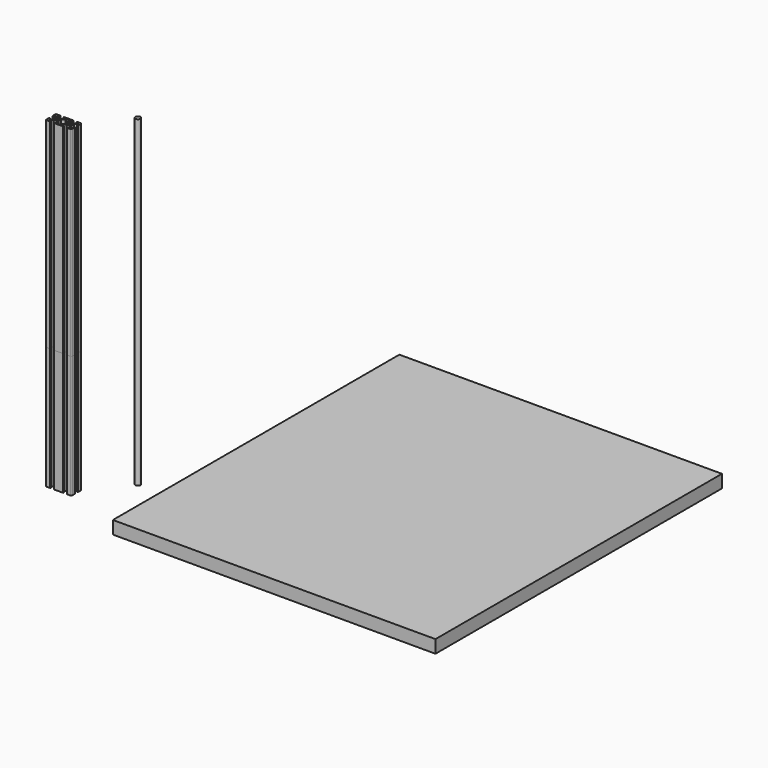
from build123d import *

# Parameters (mm, degrees)
F0_R     = 4
F1_DEPTH = 500
F2_DEPTH = 190
F0_W     = 500
F0_H     = 555
F3_DEPTH = 20


with BuildPart() as f1:
    # F0 (on Top) → F1 (new body)
    with BuildSketch(Plane.XY):
        with BuildLine():
            Line((-76.845602, -54.184212), (-82.207602, -54.184212))
            ThreePointArc((-82.207602, -54.184212), (-83.268262, -54.623552), (-83.707602, -55.684212))
            Line((-83.707602, -55.684212), (-83.707602, -61.046212))
            ThreePointArc((-83.707602, -61.046212), (-83.558812, -61.405423), (-83.199602, -61.554212))
            Line((-83.199602, -61.554212), (-82.715602, -61.554212))
            ThreePointArc((-82.715602, -61.554212), (-82.356392, -61.405423), (-82.207602, -61.046212))
            Line((-82.207602, -61.046212), (-82.207602, -58.697212))
            ThreePointArc((-82.207602, -58.697212), (-82.058812, -58.338002), (-81.699602, -58.189212))
            Line((-81.699602, -58.189212), (-80.973683, -58.189212))
            ThreePointArc((-80.973683, -58.189212), (-80.779279, -58.227881), (-80.614472, -58.338002))
            Line((-80.614472, -58.338002), (-77.511392, -61.441083))
            ThreePointArc((-77.511392, -61.441083), (-77.401271, -61.60589), (-77.362602, -61.800293))
            Line((-77.362602, -61.800293), (-77.362602, -66.568132))
            ThreePointArc((-77.362602, -66.568132), (-77.401271, -66.762535), (-77.511392, -66.927342))
            Line((-77.511392, -66.927342), (-80.614472, -70.030423))
            ThreePointArc((-80.614472, -70.030423), (-80.779279, -70.140543), (-80.973683, -70.179212))
            Line((-80.973683, -70.179212), (-81.699602, -70.179212))
            ThreePointArc((-81.699602, -70.179212), (-82.058812, -70.030423), (-82.207602, -69.671212))
            Line((-82.207602, -69.671212), (-82.207602, -67.322212))
            ThreePointArc((-82.207602, -67.322212), (-82.356392, -66.963002), (-82.715602, -66.814212))
            Line((-82.715602, -66.814212), (-83.199602, -66.814212))
            ThreePointArc((-83.199602, -66.814212), (-83.558812, -66.963002), (-83.707602, -67.322212))
            Line((-83.707602, -67.322212), (-83.707602, -72.684212))
            ThreePointArc((-83.707602, -72.684212), (-83.268262, -73.744872), (-82.207602, -74.184212))
            Line((-82.207602, -74.184212), (-76.845602, -74.184212))
            ThreePointArc((-76.845602, -74.184212), (-76.486392, -74.035423), (-76.337602, -73.676212))
            Line((-76.337602, -73.676212), (-76.337602, -73.192212))
            ThreePointArc((-76.337602, -73.192212), (-76.486392, -72.833002), (-76.845602, -72.684212))
            Line((-76.845602, -72.684212), (-79.194602, -72.684212))
            ThreePointArc((-79.194602, -72.684212), (-79.553812, -72.535423), (-79.702602, -72.176212))
            Line((-79.702602, -72.176212), (-79.702602, -71.450293))
            ThreePointArc((-79.702602, -71.450293), (-79.663933, -71.25589), (-79.553812, -71.091083))
            Line((-79.553812, -71.091083), (-76.450732, -67.988002))
            ThreePointArc((-76.450732, -67.988002), (-76.285924, -67.877881), (-76.091521, -67.839212))
            Line((-76.091521, -67.839212), (-71.323683, -67.839212))
            ThreePointArc((-71.323683, -67.839212), (-71.129279, -67.877881), (-70.964472, -67.988002))
            Line((-70.964472, -67.988002), (-67.861392, -71.091083))
            ThreePointArc((-67.861392, -71.091083), (-67.751271, -71.25589), (-67.712602, -71.450293))
            Line((-67.712602, -71.450293), (-67.712602, -72.176212))
            ThreePointArc((-67.712602, -72.176212), (-67.861392, -72.535423), (-68.220602, -72.684212))
            Line((-68.220602, -72.684212), (-70.569602, -72.684212))
            ThreePointArc((-70.569602, -72.684212), (-70.928812, -72.833002), (-71.077602, -73.192212))
            Line((-71.077602, -73.192212), (-71.077602, -73.676212))
            ThreePointArc((-71.077602, -73.676212), (-70.928812, -74.035423), (-70.569602, -74.184212))
            Line((-70.569602, -74.184212), (-63.707602, -74.184212))
            Line((-63.707602, -74.184212), (-56.845602, -74.184212))
            ThreePointArc((-56.845602, -74.184212), (-56.486392, -74.035423), (-56.337602, -73.676212))
            Line((-56.337602, -73.676212), (-56.337602, -73.192212))
            ThreePointArc((-56.337602, -73.192212), (-56.486392, -72.833002), (-56.845602, -72.684212))
            Line((-56.845602, -72.684212), (-59.194602, -72.684212))
            ThreePointArc((-59.194602, -72.684212), (-59.553812, -72.535423), (-59.702602, -72.176212))
            Line((-59.702602, -72.176212), (-59.702602, -71.450293))
            ThreePointArc((-59.702602, -71.450293), (-59.663933, -71.25589), (-59.553812, -71.091083))
            Line((-59.553812, -71.091083), (-56.450732, -67.988002))
            ThreePointArc((-56.450732, -67.988002), (-56.285924, -67.877881), (-56.091521, -67.839212))
            Line((-56.091521, -67.839212), (-51.323683, -67.839212))
            ThreePointArc((-51.323683, -67.839212), (-51.129279, -67.877881), (-50.964472, -67.988002))
            Line((-50.964472, -67.988002), (-47.861392, -71.091083))
            ThreePointArc((-47.861392, -71.091083), (-47.751271, -71.25589), (-47.712602, -71.450293))
            Line((-47.712602, -71.450293), (-47.712602, -72.176212))
            ThreePointArc((-47.712602, -72.176212), (-47.861392, -72.535423), (-48.220602, -72.684212))
            Line((-48.220602, -72.684212), (-50.569602, -72.684212))
            ThreePointArc((-50.569602, -72.684212), (-50.928812, -72.833002), (-51.077602, -73.192212))
            Line((-51.077602, -73.192212), (-51.077602, -73.676212))
            ThreePointArc((-51.077602, -73.676212), (-50.928812, -74.035423), (-50.569602, -74.184212))
            Line((-50.569602, -74.184212), (-45.207602, -74.184212))
            ThreePointArc((-45.207602, -74.184212), (-44.146942, -73.744872), (-43.707602, -72.684212))
            Line((-43.707602, -72.684212), (-43.707602, -67.322212))
            ThreePointArc((-43.707602, -67.322212), (-43.856392, -66.963002), (-44.215602, -66.814212))
            Line((-44.215602, -66.814212), (-44.699602, -66.814212))
            ThreePointArc((-44.699602, -66.814212), (-45.058812, -66.963002), (-45.207602, -67.322212))
            Line((-45.207602, -67.322212), (-45.207602, -69.671212))
            ThreePointArc((-45.207602, -69.671212), (-45.356392, -70.030423), (-45.715602, -70.179212))
            Line((-45.715602, -70.179212), (-46.441521, -70.179212))
            ThreePointArc((-46.441521, -70.179212), (-46.635924, -70.140543), (-46.800732, -70.030423))
            Line((-46.800732, -70.030423), (-49.903812, -66.927342))
            ThreePointArc((-49.903812, -66.927342), (-50.013933, -66.762535), (-50.052602, -66.568132))
            Line((-50.052602, -66.568132), (-50.052602, -61.800293))
            ThreePointArc((-50.052602, -61.800293), (-50.013933, -61.60589), (-49.903812, -61.441083))
            Line((-49.903812, -61.441083), (-46.800732, -58.338002))
            ThreePointArc((-46.800732, -58.338002), (-46.635924, -58.227881), (-46.441521, -58.189212))
            Line((-46.441521, -58.189212), (-45.715602, -58.189212))
            ThreePointArc((-45.715602, -58.189212), (-45.356392, -58.338002), (-45.207602, -58.697212))
            Line((-45.207602, -58.697212), (-45.207602, -61.046212))
            ThreePointArc((-45.207602, -61.046212), (-45.058812, -61.405423), (-44.699602, -61.554212))
            Line((-44.699602, -61.554212), (-44.215602, -61.554212))
            ThreePointArc((-44.215602, -61.554212), (-43.856392, -61.405423), (-43.707602, -61.046212))
            Line((-43.707602, -61.046212), (-43.707602, -55.684212))
            ThreePointArc((-43.707602, -55.684212), (-44.146942, -54.623552), (-45.207602, -54.184212))
            Line((-45.207602, -54.184212), (-50.569602, -54.184212))
            ThreePointArc((-50.569602, -54.184212), (-50.928812, -54.333002), (-51.077602, -54.692212))
            Line((-51.077602, -54.692212), (-51.077602, -55.176212))
            ThreePointArc((-51.077602, -55.176212), (-50.928812, -55.535423), (-50.569602, -55.684212))
            Line((-50.569602, -55.684212), (-48.220602, -55.684212))
            ThreePointArc((-48.220602, -55.684212), (-47.861392, -55.833002), (-47.712602, -56.192212))
            Line((-47.712602, -56.192212), (-47.712602, -56.918132))
            ThreePointArc((-47.712602, -56.918132), (-47.751271, -57.112535), (-47.861392, -57.277342))
            Line((-47.861392, -57.277342), (-50.964472, -60.380423))
            ThreePointArc((-50.964472, -60.380423), (-51.129279, -60.490543), (-51.323683, -60.529212))
            Line((-51.323683, -60.529212), (-56.091521, -60.529212))
            ThreePointArc((-56.091521, -60.529212), (-56.285924, -60.490543), (-56.450732, -60.380423))
            Line((-56.450732, -60.380423), (-59.553812, -57.277342))
            ThreePointArc((-59.553812, -57.277342), (-59.663933, -57.112535), (-59.702602, -56.918132))
            Line((-59.702602, -56.918132), (-59.702602, -56.192212))
            ThreePointArc((-59.702602, -56.192212), (-59.553812, -55.833002), (-59.194602, -55.684212))
            Line((-59.194602, -55.684212), (-56.845602, -55.684212))
            ThreePointArc((-56.845602, -55.684212), (-56.486392, -55.535423), (-56.337602, -55.176212))
            Line((-56.337602, -55.176212), (-56.337602, -54.692212))
            ThreePointArc((-56.337602, -54.692212), (-56.486392, -54.333002), (-56.845602, -54.184212))
            Line((-56.845602, -54.184212), (-63.707602, -54.184212))
            Line((-63.707602, -54.184212), (-70.569602, -54.184212))
            ThreePointArc((-70.569602, -54.184212), (-70.928812, -54.333002), (-71.077602, -54.692212))
            Line((-71.077602, -54.692212), (-71.077602, -55.176212))
            ThreePointArc((-71.077602, -55.176212), (-70.928812, -55.535423), (-70.569602, -55.684212))
            Line((-70.569602, -55.684212), (-68.220602, -55.684212))
            ThreePointArc((-68.220602, -55.684212), (-67.861392, -55.833002), (-67.712602, -56.192212))
            Line((-67.712602, -56.192212), (-67.712602, -56.918132))
            ThreePointArc((-67.712602, -56.918132), (-67.751271, -57.112535), (-67.861392, -57.277342))
            Line((-67.861392, -57.277342), (-70.964472, -60.380423))
            ThreePointArc((-70.964472, -60.380423), (-71.129279, -60.490543), (-71.323683, -60.529212))
            Line((-71.323683, -60.529212), (-76.091521, -60.529212))
            ThreePointArc((-76.091521, -60.529212), (-76.285924, -60.490543), (-76.450732, -60.380423))
            Line((-76.450732, -60.380423), (-79.553812, -57.277342))
            ThreePointArc((-79.553812, -57.277342), (-79.663933, -57.112535), (-79.702602, -56.918132))
            Line((-79.702602, -56.918132), (-79.702602, -56.192212))
            ThreePointArc((-79.702602, -56.192212), (-79.553812, -55.833002), (-79.194602, -55.684212))
            Line((-79.194602, -55.684212), (-76.845602, -55.684212))
            ThreePointArc((-76.845602, -55.684212), (-76.486392, -55.535423), (-76.337602, -55.176212))
            Line((-76.337602, -55.176212), (-76.337602, -54.692212))
            ThreePointArc((-76.337602, -54.692212), (-76.486392, -54.333002), (-76.845602, -54.184212))
        make_face()
        with BuildLine():
            ThreePointArc((-75.642735, -63.380236), (-76.21354, -62.827744), (-76.012108, -62.059311))
            Line((-76.012108, -62.059311), (-75.832503, -61.879706))
            ThreePointArc((-75.832503, -61.879706), (-75.06407, -61.678274), (-74.511579, -62.249079))
            ThreePointArc((-74.511579, -62.249079), (-73.707602, -62.088712), (-72.903625, -62.249079))
            ThreePointArc((-72.903625, -62.249079), (-72.351134, -61.678274), (-71.582701, -61.879706))
            Line((-71.582701, -61.879706), (-71.403096, -62.059311))
            ThreePointArc((-71.403096, -62.059311), (-71.201664, -62.827744), (-71.772468, -63.380236))
            ThreePointArc((-71.772468, -63.380236), (-71.612102, -64.184212), (-71.772468, -64.988189))
            ThreePointArc((-71.772468, -64.988189), (-71.201664, -65.54068), (-71.403096, -66.309113))
            Line((-71.403096, -66.309113), (-71.582701, -66.488718))
            ThreePointArc((-71.582701, -66.488718), (-72.351134, -66.69015), (-72.903625, -66.119346))
            ThreePointArc((-72.903625, -66.119346), (-73.707602, -66.279712), (-74.511579, -66.119346))
            ThreePointArc((-74.511579, -66.119346), (-75.06407, -66.69015), (-75.832503, -66.488718))
            Line((-75.832503, -66.488718), (-76.012108, -66.309113))
            ThreePointArc((-76.012108, -66.309113), (-76.21354, -65.54068), (-75.642735, -64.988189))
            ThreePointArc((-75.642735, -64.988189), (-75.803102, -64.184212), (-75.642735, -63.380236))
        make_face(mode=Mode.SUBTRACT)
        with BuildLine():
            ThreePointArc((-70.052602, -61.800293), (-70.013933, -61.60589), (-69.903812, -61.441083))
            Line((-69.903812, -61.441083), (-66.361392, -57.898662))
            ThreePointArc((-66.361392, -57.898662), (-66.251271, -57.733855), (-66.212602, -57.539452))
            Line((-66.212602, -57.539452), (-66.212602, -56.192212))
            ThreePointArc((-66.212602, -56.192212), (-66.063812, -55.833002), (-65.704602, -55.684212))
            Line((-65.704602, -55.684212), (-63.707602, -55.684212))
            Line((-63.707602, -55.684212), (-61.710602, -55.684212))
            ThreePointArc((-61.710602, -55.684212), (-61.351392, -55.833002), (-61.202602, -56.192212))
            Line((-61.202602, -56.192212), (-61.202602, -57.539452))
            ThreePointArc((-61.202602, -57.539452), (-61.163933, -57.733855), (-61.053812, -57.898662))
            Line((-61.053812, -57.898662), (-57.511392, -61.441083))
            ThreePointArc((-57.511392, -61.441083), (-57.401271, -61.60589), (-57.362602, -61.800293))
            Line((-57.362602, -61.800293), (-57.362602, -66.568132))
            ThreePointArc((-57.362602, -66.568132), (-57.401271, -66.762535), (-57.511392, -66.927342))
            Line((-57.511392, -66.927342), (-61.053812, -70.469762))
            ThreePointArc((-61.053812, -70.469762), (-61.163933, -70.634569), (-61.202602, -70.828973))
            Line((-61.202602, -70.828973), (-61.202602, -72.176212))
            ThreePointArc((-61.202602, -72.176212), (-61.351392, -72.535423), (-61.710602, -72.684212))
            Line((-61.710602, -72.684212), (-63.707602, -72.684212))
            Line((-63.707602, -72.684212), (-65.704602, -72.684212))
            ThreePointArc((-65.704602, -72.684212), (-66.063812, -72.535423), (-66.212602, -72.176212))
            Line((-66.212602, -72.176212), (-66.212602, -70.828973))
            ThreePointArc((-66.212602, -70.828973), (-66.251271, -70.634569), (-66.361392, -70.469762))
            Line((-66.361392, -70.469762), (-69.903812, -66.927342))
            ThreePointArc((-69.903812, -66.927342), (-70.013933, -66.762535), (-70.052602, -66.568132))
            Line((-70.052602, -66.568132), (-70.052602, -61.800293))
        make_face(mode=Mode.SUBTRACT)
        with BuildLine():
            Line((-55.832503, -66.488718), (-56.012108, -66.309113))
            ThreePointArc((-56.012108, -66.309113), (-56.21354, -65.54068), (-55.642735, -64.988189))
            ThreePointArc((-55.642735, -64.988189), (-55.803102, -64.184212), (-55.642735, -63.380236))
            ThreePointArc((-55.642735, -63.380236), (-56.21354, -62.827744), (-56.012108, -62.059311))
            Line((-56.012108, -62.059311), (-55.832503, -61.879706))
            ThreePointArc((-55.832503, -61.879706), (-55.06407, -61.678274), (-54.511579, -62.249079))
            ThreePointArc((-54.511579, -62.249079), (-53.707602, -62.088712), (-52.903625, -62.249079))
            ThreePointArc((-52.903625, -62.249079), (-52.351134, -61.678274), (-51.582701, -61.879706))
            Line((-51.582701, -61.879706), (-51.403096, -62.059311))
            ThreePointArc((-51.403096, -62.059311), (-51.201664, -62.827744), (-51.772468, -63.380236))
            ThreePointArc((-51.772468, -63.380236), (-51.612102, -64.184212), (-51.772468, -64.988189))
            ThreePointArc((-51.772468, -64.988189), (-51.201664, -65.54068), (-51.403096, -66.309113))
            Line((-51.403096, -66.309113), (-51.582701, -66.488718))
            ThreePointArc((-51.582701, -66.488718), (-52.351134, -66.69015), (-52.903625, -66.119346))
            ThreePointArc((-52.903625, -66.119346), (-53.707602, -66.279712), (-54.511579, -66.119346))
            ThreePointArc((-54.511579, -66.119346), (-55.06407, -66.69015), (-55.832503, -66.488718))
        make_face(mode=Mode.SUBTRACT)
        Circle(F0_R)
    extrude(amount=F1_DEPTH)


with BuildPart() as f2:
    # F0 (on Top) → F2 (new body)
    with BuildSketch(Plane.XY):
        with BuildLine():
            Line((-76.845602, -54.184212), (-82.207602, -54.184212))
            ThreePointArc((-82.207602, -54.184212), (-83.268262, -54.623552), (-83.707602, -55.684212))
            Line((-83.707602, -55.684212), (-83.707602, -61.046212))
            ThreePointArc((-83.707602, -61.046212), (-83.558812, -61.405423), (-83.199602, -61.554212))
            Line((-83.199602, -61.554212), (-82.715602, -61.554212))
            ThreePointArc((-82.715602, -61.554212), (-82.356392, -61.405423), (-82.207602, -61.046212))
            Line((-82.207602, -61.046212), (-82.207602, -58.697212))
            ThreePointArc((-82.207602, -58.697212), (-82.058812, -58.338002), (-81.699602, -58.189212))
            Line((-81.699602, -58.189212), (-80.973683, -58.189212))
            ThreePointArc((-80.973683, -58.189212), (-80.779279, -58.227881), (-80.614472, -58.338002))
            Line((-80.614472, -58.338002), (-77.511392, -61.441083))
            ThreePointArc((-77.511392, -61.441083), (-77.401271, -61.60589), (-77.362602, -61.800293))
            Line((-77.362602, -61.800293), (-77.362602, -66.568132))
            ThreePointArc((-77.362602, -66.568132), (-77.401271, -66.762535), (-77.511392, -66.927342))
            Line((-77.511392, -66.927342), (-80.614472, -70.030423))
            ThreePointArc((-80.614472, -70.030423), (-80.779279, -70.140543), (-80.973683, -70.179212))
            Line((-80.973683, -70.179212), (-81.699602, -70.179212))
            ThreePointArc((-81.699602, -70.179212), (-82.058812, -70.030423), (-82.207602, -69.671212))
            Line((-82.207602, -69.671212), (-82.207602, -67.322212))
            ThreePointArc((-82.207602, -67.322212), (-82.356392, -66.963002), (-82.715602, -66.814212))
            Line((-82.715602, -66.814212), (-83.199602, -66.814212))
            ThreePointArc((-83.199602, -66.814212), (-83.558812, -66.963002), (-83.707602, -67.322212))
            Line((-83.707602, -67.322212), (-83.707602, -72.684212))
            ThreePointArc((-83.707602, -72.684212), (-83.268262, -73.744872), (-82.207602, -74.184212))
            Line((-82.207602, -74.184212), (-76.845602, -74.184212))
            ThreePointArc((-76.845602, -74.184212), (-76.486392, -74.035423), (-76.337602, -73.676212))
            Line((-76.337602, -73.676212), (-76.337602, -73.192212))
            ThreePointArc((-76.337602, -73.192212), (-76.486392, -72.833002), (-76.845602, -72.684212))
            Line((-76.845602, -72.684212), (-79.194602, -72.684212))
            ThreePointArc((-79.194602, -72.684212), (-79.553812, -72.535423), (-79.702602, -72.176212))
            Line((-79.702602, -72.176212), (-79.702602, -71.450293))
            ThreePointArc((-79.702602, -71.450293), (-79.663933, -71.25589), (-79.553812, -71.091083))
            Line((-79.553812, -71.091083), (-76.450732, -67.988002))
            ThreePointArc((-76.450732, -67.988002), (-76.285924, -67.877881), (-76.091521, -67.839212))
            Line((-76.091521, -67.839212), (-71.323683, -67.839212))
            ThreePointArc((-71.323683, -67.839212), (-71.129279, -67.877881), (-70.964472, -67.988002))
            Line((-70.964472, -67.988002), (-67.861392, -71.091083))
            ThreePointArc((-67.861392, -71.091083), (-67.751271, -71.25589), (-67.712602, -71.450293))
            Line((-67.712602, -71.450293), (-67.712602, -72.176212))
            ThreePointArc((-67.712602, -72.176212), (-67.861392, -72.535423), (-68.220602, -72.684212))
            Line((-68.220602, -72.684212), (-70.569602, -72.684212))
            ThreePointArc((-70.569602, -72.684212), (-70.928812, -72.833002), (-71.077602, -73.192212))
            Line((-71.077602, -73.192212), (-71.077602, -73.676212))
            ThreePointArc((-71.077602, -73.676212), (-70.928812, -74.035423), (-70.569602, -74.184212))
            Line((-70.569602, -74.184212), (-63.707602, -74.184212))
            Line((-63.707602, -74.184212), (-56.845602, -74.184212))
            ThreePointArc((-56.845602, -74.184212), (-56.486392, -74.035423), (-56.337602, -73.676212))
            Line((-56.337602, -73.676212), (-56.337602, -73.192212))
            ThreePointArc((-56.337602, -73.192212), (-56.486392, -72.833002), (-56.845602, -72.684212))
            Line((-56.845602, -72.684212), (-59.194602, -72.684212))
            ThreePointArc((-59.194602, -72.684212), (-59.553812, -72.535423), (-59.702602, -72.176212))
            Line((-59.702602, -72.176212), (-59.702602, -71.450293))
            ThreePointArc((-59.702602, -71.450293), (-59.663933, -71.25589), (-59.553812, -71.091083))
            Line((-59.553812, -71.091083), (-56.450732, -67.988002))
            ThreePointArc((-56.450732, -67.988002), (-56.285924, -67.877881), (-56.091521, -67.839212))
            Line((-56.091521, -67.839212), (-51.323683, -67.839212))
            ThreePointArc((-51.323683, -67.839212), (-51.129279, -67.877881), (-50.964472, -67.988002))
            Line((-50.964472, -67.988002), (-47.861392, -71.091083))
            ThreePointArc((-47.861392, -71.091083), (-47.751271, -71.25589), (-47.712602, -71.450293))
            Line((-47.712602, -71.450293), (-47.712602, -72.176212))
            ThreePointArc((-47.712602, -72.176212), (-47.861392, -72.535423), (-48.220602, -72.684212))
            Line((-48.220602, -72.684212), (-50.569602, -72.684212))
            ThreePointArc((-50.569602, -72.684212), (-50.928812, -72.833002), (-51.077602, -73.192212))
            Line((-51.077602, -73.192212), (-51.077602, -73.676212))
            ThreePointArc((-51.077602, -73.676212), (-50.928812, -74.035423), (-50.569602, -74.184212))
            Line((-50.569602, -74.184212), (-45.207602, -74.184212))
            ThreePointArc((-45.207602, -74.184212), (-44.146942, -73.744872), (-43.707602, -72.684212))
            Line((-43.707602, -72.684212), (-43.707602, -67.322212))
            ThreePointArc((-43.707602, -67.322212), (-43.856392, -66.963002), (-44.215602, -66.814212))
            Line((-44.215602, -66.814212), (-44.699602, -66.814212))
            ThreePointArc((-44.699602, -66.814212), (-45.058812, -66.963002), (-45.207602, -67.322212))
            Line((-45.207602, -67.322212), (-45.207602, -69.671212))
            ThreePointArc((-45.207602, -69.671212), (-45.356392, -70.030423), (-45.715602, -70.179212))
            Line((-45.715602, -70.179212), (-46.441521, -70.179212))
            ThreePointArc((-46.441521, -70.179212), (-46.635924, -70.140543), (-46.800732, -70.030423))
            Line((-46.800732, -70.030423), (-49.903812, -66.927342))
            ThreePointArc((-49.903812, -66.927342), (-50.013933, -66.762535), (-50.052602, -66.568132))
            Line((-50.052602, -66.568132), (-50.052602, -61.800293))
            ThreePointArc((-50.052602, -61.800293), (-50.013933, -61.60589), (-49.903812, -61.441083))
            Line((-49.903812, -61.441083), (-46.800732, -58.338002))
            ThreePointArc((-46.800732, -58.338002), (-46.635924, -58.227881), (-46.441521, -58.189212))
            Line((-46.441521, -58.189212), (-45.715602, -58.189212))
            ThreePointArc((-45.715602, -58.189212), (-45.356392, -58.338002), (-45.207602, -58.697212))
            Line((-45.207602, -58.697212), (-45.207602, -61.046212))
            ThreePointArc((-45.207602, -61.046212), (-45.058812, -61.405423), (-44.699602, -61.554212))
            Line((-44.699602, -61.554212), (-44.215602, -61.554212))
            ThreePointArc((-44.215602, -61.554212), (-43.856392, -61.405423), (-43.707602, -61.046212))
            Line((-43.707602, -61.046212), (-43.707602, -55.684212))
            ThreePointArc((-43.707602, -55.684212), (-44.146942, -54.623552), (-45.207602, -54.184212))
            Line((-45.207602, -54.184212), (-50.569602, -54.184212))
            ThreePointArc((-50.569602, -54.184212), (-50.928812, -54.333002), (-51.077602, -54.692212))
            Line((-51.077602, -54.692212), (-51.077602, -55.176212))
            ThreePointArc((-51.077602, -55.176212), (-50.928812, -55.535423), (-50.569602, -55.684212))
            Line((-50.569602, -55.684212), (-48.220602, -55.684212))
            ThreePointArc((-48.220602, -55.684212), (-47.861392, -55.833002), (-47.712602, -56.192212))
            Line((-47.712602, -56.192212), (-47.712602, -56.918132))
            ThreePointArc((-47.712602, -56.918132), (-47.751271, -57.112535), (-47.861392, -57.277342))
            Line((-47.861392, -57.277342), (-50.964472, -60.380423))
            ThreePointArc((-50.964472, -60.380423), (-51.129279, -60.490543), (-51.323683, -60.529212))
            Line((-51.323683, -60.529212), (-56.091521, -60.529212))
            ThreePointArc((-56.091521, -60.529212), (-56.285924, -60.490543), (-56.450732, -60.380423))
            Line((-56.450732, -60.380423), (-59.553812, -57.277342))
            ThreePointArc((-59.553812, -57.277342), (-59.663933, -57.112535), (-59.702602, -56.918132))
            Line((-59.702602, -56.918132), (-59.702602, -56.192212))
            ThreePointArc((-59.702602, -56.192212), (-59.553812, -55.833002), (-59.194602, -55.684212))
            Line((-59.194602, -55.684212), (-56.845602, -55.684212))
            ThreePointArc((-56.845602, -55.684212), (-56.486392, -55.535423), (-56.337602, -55.176212))
            Line((-56.337602, -55.176212), (-56.337602, -54.692212))
            ThreePointArc((-56.337602, -54.692212), (-56.486392, -54.333002), (-56.845602, -54.184212))
            Line((-56.845602, -54.184212), (-63.707602, -54.184212))
            Line((-63.707602, -54.184212), (-70.569602, -54.184212))
            ThreePointArc((-70.569602, -54.184212), (-70.928812, -54.333002), (-71.077602, -54.692212))
            Line((-71.077602, -54.692212), (-71.077602, -55.176212))
            ThreePointArc((-71.077602, -55.176212), (-70.928812, -55.535423), (-70.569602, -55.684212))
            Line((-70.569602, -55.684212), (-68.220602, -55.684212))
            ThreePointArc((-68.220602, -55.684212), (-67.861392, -55.833002), (-67.712602, -56.192212))
            Line((-67.712602, -56.192212), (-67.712602, -56.918132))
            ThreePointArc((-67.712602, -56.918132), (-67.751271, -57.112535), (-67.861392, -57.277342))
            Line((-67.861392, -57.277342), (-70.964472, -60.380423))
            ThreePointArc((-70.964472, -60.380423), (-71.129279, -60.490543), (-71.323683, -60.529212))
            Line((-71.323683, -60.529212), (-76.091521, -60.529212))
            ThreePointArc((-76.091521, -60.529212), (-76.285924, -60.490543), (-76.450732, -60.380423))
            Line((-76.450732, -60.380423), (-79.553812, -57.277342))
            ThreePointArc((-79.553812, -57.277342), (-79.663933, -57.112535), (-79.702602, -56.918132))
            Line((-79.702602, -56.918132), (-79.702602, -56.192212))
            ThreePointArc((-79.702602, -56.192212), (-79.553812, -55.833002), (-79.194602, -55.684212))
            Line((-79.194602, -55.684212), (-76.845602, -55.684212))
            ThreePointArc((-76.845602, -55.684212), (-76.486392, -55.535423), (-76.337602, -55.176212))
            Line((-76.337602, -55.176212), (-76.337602, -54.692212))
            ThreePointArc((-76.337602, -54.692212), (-76.486392, -54.333002), (-76.845602, -54.184212))
        make_face()
        with BuildLine():
            ThreePointArc((-75.642735, -63.380236), (-76.21354, -62.827744), (-76.012108, -62.059311))
            Line((-76.012108, -62.059311), (-75.832503, -61.879706))
            ThreePointArc((-75.832503, -61.879706), (-75.06407, -61.678274), (-74.511579, -62.249079))
            ThreePointArc((-74.511579, -62.249079), (-73.707602, -62.088712), (-72.903625, -62.249079))
            ThreePointArc((-72.903625, -62.249079), (-72.351134, -61.678274), (-71.582701, -61.879706))
            Line((-71.582701, -61.879706), (-71.403096, -62.059311))
            ThreePointArc((-71.403096, -62.059311), (-71.201664, -62.827744), (-71.772468, -63.380236))
            ThreePointArc((-71.772468, -63.380236), (-71.612102, -64.184212), (-71.772468, -64.988189))
            ThreePointArc((-71.772468, -64.988189), (-71.201664, -65.54068), (-71.403096, -66.309113))
            Line((-71.403096, -66.309113), (-71.582701, -66.488718))
            ThreePointArc((-71.582701, -66.488718), (-72.351134, -66.69015), (-72.903625, -66.119346))
            ThreePointArc((-72.903625, -66.119346), (-73.707602, -66.279712), (-74.511579, -66.119346))
            ThreePointArc((-74.511579, -66.119346), (-75.06407, -66.69015), (-75.832503, -66.488718))
            Line((-75.832503, -66.488718), (-76.012108, -66.309113))
            ThreePointArc((-76.012108, -66.309113), (-76.21354, -65.54068), (-75.642735, -64.988189))
            ThreePointArc((-75.642735, -64.988189), (-75.803102, -64.184212), (-75.642735, -63.380236))
        make_face(mode=Mode.SUBTRACT)
        with BuildLine():
            ThreePointArc((-70.052602, -61.800293), (-70.013933, -61.60589), (-69.903812, -61.441083))
            Line((-69.903812, -61.441083), (-66.361392, -57.898662))
            ThreePointArc((-66.361392, -57.898662), (-66.251271, -57.733855), (-66.212602, -57.539452))
            Line((-66.212602, -57.539452), (-66.212602, -56.192212))
            ThreePointArc((-66.212602, -56.192212), (-66.063812, -55.833002), (-65.704602, -55.684212))
            Line((-65.704602, -55.684212), (-63.707602, -55.684212))
            Line((-63.707602, -55.684212), (-61.710602, -55.684212))
            ThreePointArc((-61.710602, -55.684212), (-61.351392, -55.833002), (-61.202602, -56.192212))
            Line((-61.202602, -56.192212), (-61.202602, -57.539452))
            ThreePointArc((-61.202602, -57.539452), (-61.163933, -57.733855), (-61.053812, -57.898662))
            Line((-61.053812, -57.898662), (-57.511392, -61.441083))
            ThreePointArc((-57.511392, -61.441083), (-57.401271, -61.60589), (-57.362602, -61.800293))
            Line((-57.362602, -61.800293), (-57.362602, -66.568132))
            ThreePointArc((-57.362602, -66.568132), (-57.401271, -66.762535), (-57.511392, -66.927342))
            Line((-57.511392, -66.927342), (-61.053812, -70.469762))
            ThreePointArc((-61.053812, -70.469762), (-61.163933, -70.634569), (-61.202602, -70.828973))
            Line((-61.202602, -70.828973), (-61.202602, -72.176212))
            ThreePointArc((-61.202602, -72.176212), (-61.351392, -72.535423), (-61.710602, -72.684212))
            Line((-61.710602, -72.684212), (-63.707602, -72.684212))
            Line((-63.707602, -72.684212), (-65.704602, -72.684212))
            ThreePointArc((-65.704602, -72.684212), (-66.063812, -72.535423), (-66.212602, -72.176212))
            Line((-66.212602, -72.176212), (-66.212602, -70.828973))
            ThreePointArc((-66.212602, -70.828973), (-66.251271, -70.634569), (-66.361392, -70.469762))
            Line((-66.361392, -70.469762), (-69.903812, -66.927342))
            ThreePointArc((-69.903812, -66.927342), (-70.013933, -66.762535), (-70.052602, -66.568132))
            Line((-70.052602, -66.568132), (-70.052602, -61.800293))
        make_face(mode=Mode.SUBTRACT)
        with BuildLine():
            Line((-55.832503, -66.488718), (-56.012108, -66.309113))
            ThreePointArc((-56.012108, -66.309113), (-56.21354, -65.54068), (-55.642735, -64.988189))
            ThreePointArc((-55.642735, -64.988189), (-55.803102, -64.184212), (-55.642735, -63.380236))
            ThreePointArc((-55.642735, -63.380236), (-56.21354, -62.827744), (-56.012108, -62.059311))
            Line((-56.012108, -62.059311), (-55.832503, -61.879706))
            ThreePointArc((-55.832503, -61.879706), (-55.06407, -61.678274), (-54.511579, -62.249079))
            ThreePointArc((-54.511579, -62.249079), (-53.707602, -62.088712), (-52.903625, -62.249079))
            ThreePointArc((-52.903625, -62.249079), (-52.351134, -61.678274), (-51.582701, -61.879706))
            Line((-51.582701, -61.879706), (-51.403096, -62.059311))
            ThreePointArc((-51.403096, -62.059311), (-51.201664, -62.827744), (-51.772468, -63.380236))
            ThreePointArc((-51.772468, -63.380236), (-51.612102, -64.184212), (-51.772468, -64.988189))
            ThreePointArc((-51.772468, -64.988189), (-51.201664, -65.54068), (-51.403096, -66.309113))
            Line((-51.403096, -66.309113), (-51.582701, -66.488718))
            ThreePointArc((-51.582701, -66.488718), (-52.351134, -66.69015), (-52.903625, -66.119346))
            ThreePointArc((-52.903625, -66.119346), (-53.707602, -66.279712), (-54.511579, -66.119346))
            ThreePointArc((-54.511579, -66.119346), (-55.06407, -66.69015), (-55.832503, -66.488718))
        make_face(mode=Mode.SUBTRACT)
    extrude(amount=F2_DEPTH)


with BuildPart() as f3:
    # F0 (on Top) → F3 (new body)
    with BuildSketch(Plane.XY):
        with Locations((308.917455, 155.461449)):
            Rectangle(F0_W, F0_H)
    extrude(amount=F3_DEPTH)


solid = Compound([f1.part, f2.part, f3.part])
